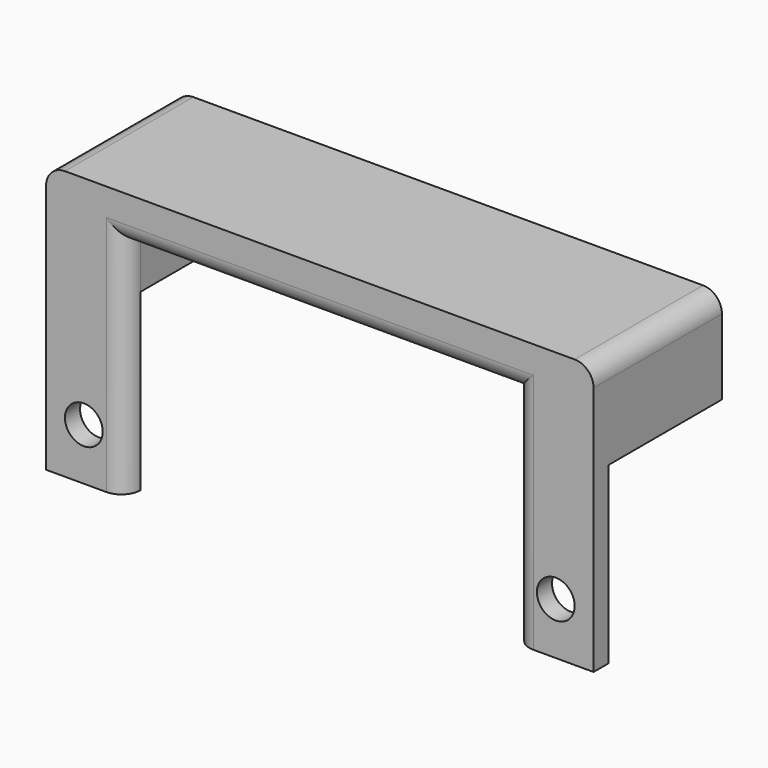
from build123d import *

# Parameters (mm, degrees)
F0_R     = 2
F1_DEPTH = 2
F3_DEPTH = 15
F4_R     = 2


with BuildPart() as f1:
    # F0 (on Front) → F1 (new body)
    with BuildSketch(Plane.XZ):
        Polygon((40.190461, 17.494964), (-17.809539, 17.494964), (-17.809539, -11.005036), (-9.423875, -11.005036), (-9.423875, 12.596268), (31.804797, 12.596268), (31.804797, -11.005036), (40.190461, -11.005036), align=None)
        with Locations((-13.809539, -5.505036)):
            Circle(F0_R, mode=Mode.SUBTRACT)
        with Locations((36.190461, -5.505036)):
            Circle(F0_R, mode=Mode.SUBTRACT)
    extrude(amount=F1_DEPTH)

    # F2 (on face) → F3 (join)
    with BuildSketch(Plane.XZ):
        Polygon((31.804797, 7.494964), (40.190461, 7.494964), (40.190461, 17.494964), (-17.809539, 17.494964), (-17.809539, 7.494964), (-9.423875, 7.494964), (-9.423875, 12.596268), (31.804797, 12.596268), align=None)
    extrude(amount=-F3_DEPTH)

    # F4
    f4_edges = [f1.edges().sort_by_distance(p)[0] for p in [
        (-17.809539, 6.5, 17.494964),
        (40.190461, 6.5, 17.494964),
        (11.190461, -2, 12.596268),
        (31.804797, -2, 0.795616),
        (-9.423875, -2, 0.795616),
        (31.804797, 15, 10.045616),
        (11.190461, 15, 12.596268),
        (-9.423875, 15, 10.045616),
    ]]
    fillet(f4_edges, radius=F4_R)


solid = f1.part
